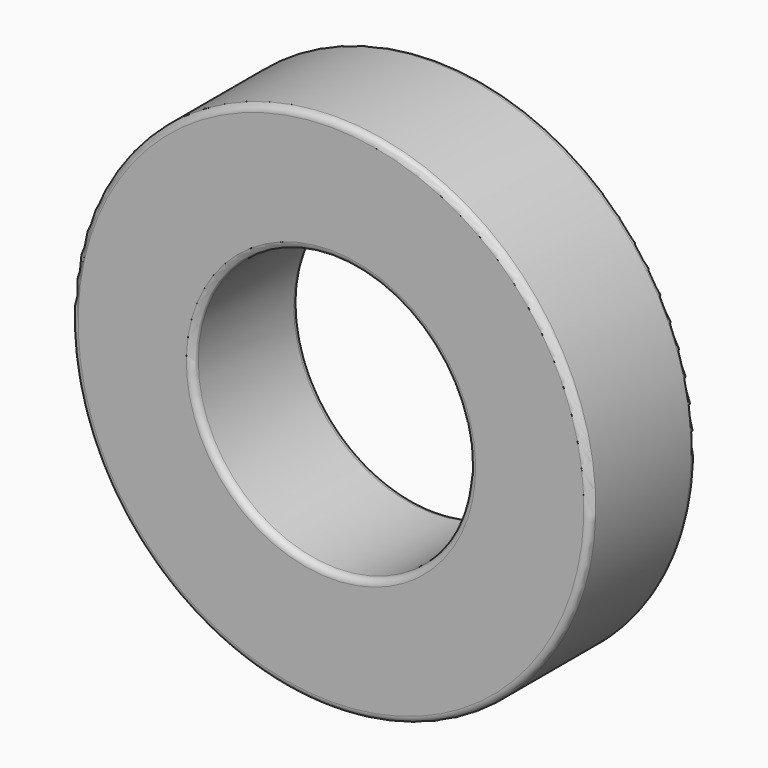
from build123d import *


with BuildPart() as part:
    # Sketch → Revolution (revolve)
    with BuildSketch(Plane.YZ):
        with BuildLine():
            ThreePointArc((-5.4, 23.5), (-5.824264, 23.324264), (-6, 22.9))
            Line((-6, 13.1), (-6, 22.9))
            ThreePointArc((-6, 13.1), (-5.824264, 12.675736), (-5.4, 12.5))
            Line((5.4, 12.5), (-5.4, 12.5))
            ThreePointArc((5.4, 12.5), (5.824264, 12.675736), (6, 13.1))
            Line((6, 22.9), (6, 13.1))
            ThreePointArc((6, 22.9), (5.824264, 23.324264), (5.4, 23.5))
            Line((-5.4, 23.5), (5.4, 23.5))
        make_face()
    revolve(axis=Axis((0, 0, 0), (0, 1, 0)))


solid = part.part
